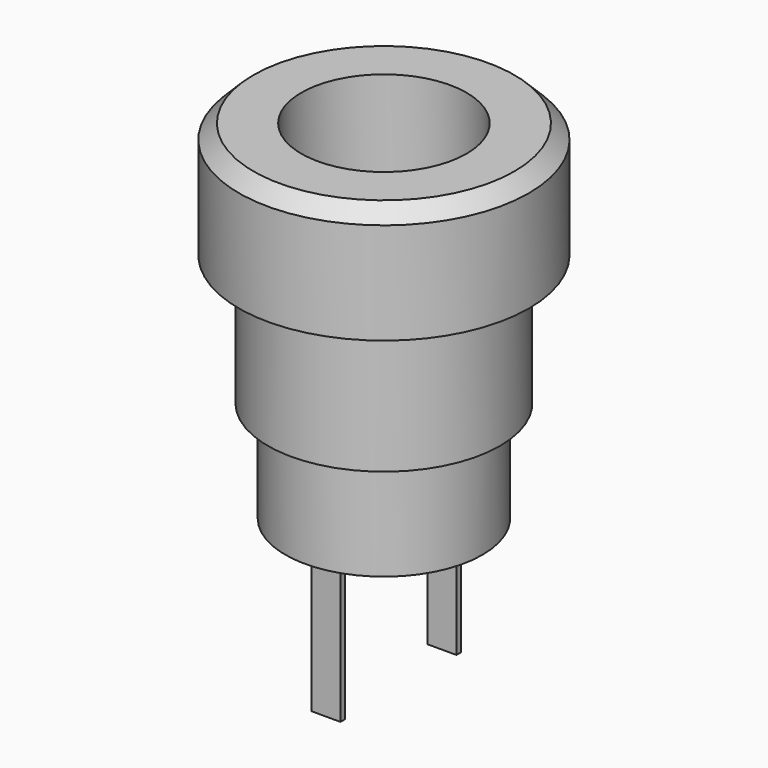
from build123d import *

# Parameters (mm, degrees)
CYLINDER003_R     = 2.85
CYLINDER003_DEPTH = 10
BOX_W             = 1
BOX_H             = 0.2
BOX_DEPTH         = 5.1
CYLINDER002_R     = 3.4
CYLINDER002_DEPTH = 8.5
BOX001_W          = 1
BOX001_H          = 0.2
BOX001_DEPTH      = 5.1
CYLINDER_R        = 5
CYLINDER_DEPTH    = 4
CHAMFER_SIZE      = 0.5
CYLINDER001_R     = 4
CYLINDER001_DEPTH = 4.6


with BuildPart() as hole:
    # Cylinder003 → Cylinder003 (new body)
    with BuildSketch(Plane.XY):
        Circle(CYLINDER003_R)
    extrude(amount=CYLINDER003_DEPTH)


with BuildPart() as contact01:
    # Box → Box (new body)
    with BuildSketch(Plane(origin=(-0.5, 2.5, -13), x_dir=(1, 0, 0), z_dir=(0, 0, 1))):
        with Locations((0.5, 0.1)):
            Rectangle(BOX_W, BOX_H)
    extrude(amount=BOX_DEPTH)


with BuildPart() as cylinder002:
    # Cylinder002 → Cylinder002 (new body)
    with BuildSketch(Plane.XY.offset(-8)):
        Circle(CYLINDER002_R)
    extrude(amount=CYLINDER002_DEPTH)


with BuildPart() as contact002:
    # Box001 → Box001 (new body)
    with BuildSketch(Plane(origin=(-0.5, -2.5, -13), x_dir=(1, 0, 0), z_dir=(0, 0, 1))):
        with Locations((0.5, 0.1)):
            Rectangle(BOX001_W, BOX001_H)
    extrude(amount=BOX001_DEPTH)


with BuildPart() as chamfer_body:
    # Cylinder → Cylinder (new body)
    with BuildSketch(Plane.XY):
        Circle(CYLINDER_R)
    extrude(amount=CYLINDER_DEPTH)

    # Chamfer
    chamfer_edges = [chamfer_body.edges().sort_by_distance(p)[0] for p in [
        (-5, 0, 4),
    ]]
    chamfer(chamfer_edges, length=CHAMFER_SIZE)


with BuildPart() as powerconnector:
    # Cylinder001 → Cylinder001 (new body)
    with BuildSketch(Plane.XY.offset(-4.5)):
        Circle(CYLINDER001_R)
    extrude(amount=CYLINDER001_DEPTH)

    # Fusion: union contact01, Cylinder002, contact002, Chamfer body
    add(contact01.part)
    add(cylinder002.part)
    add(contact002.part)
    add(chamfer_body.part)

    # Cut: cut hole
    add(hole.part, mode=Mode.SUBTRACT)


solid = powerconnector.part
